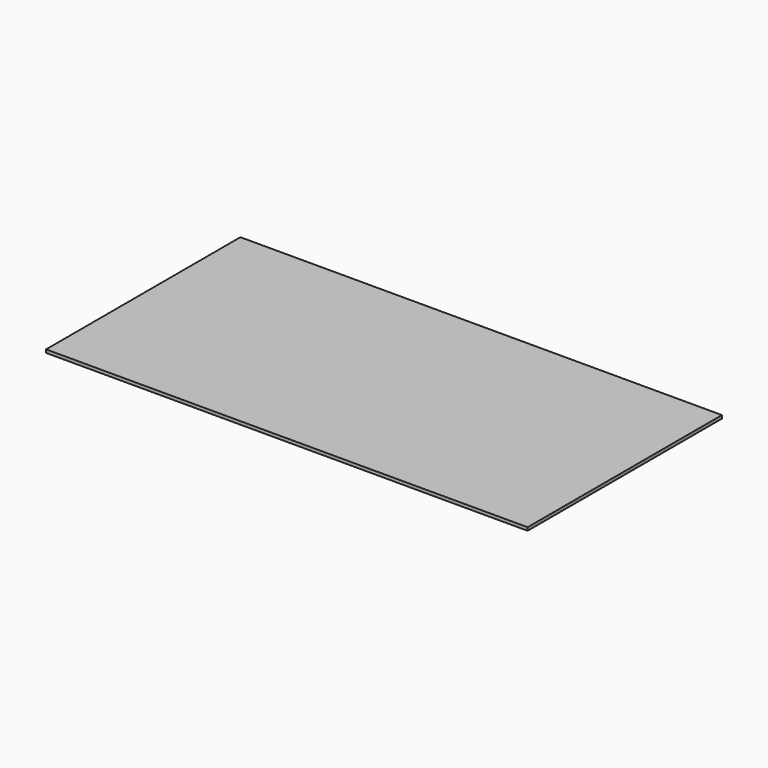
from build123d import *

# Parameters (mm, degrees)
SKETCH_W  = 1830
SKETCH_H  = 923
PAD_DEPTH = 12


with BuildPart() as part:
    # Sketch → Pad (new body)
    with BuildSketch(Plane.XY):
        with Locations((71.447921, -65.538793)):
            Rectangle(SKETCH_W, SKETCH_H)
    extrude(amount=PAD_DEPTH)


solid = part.part
